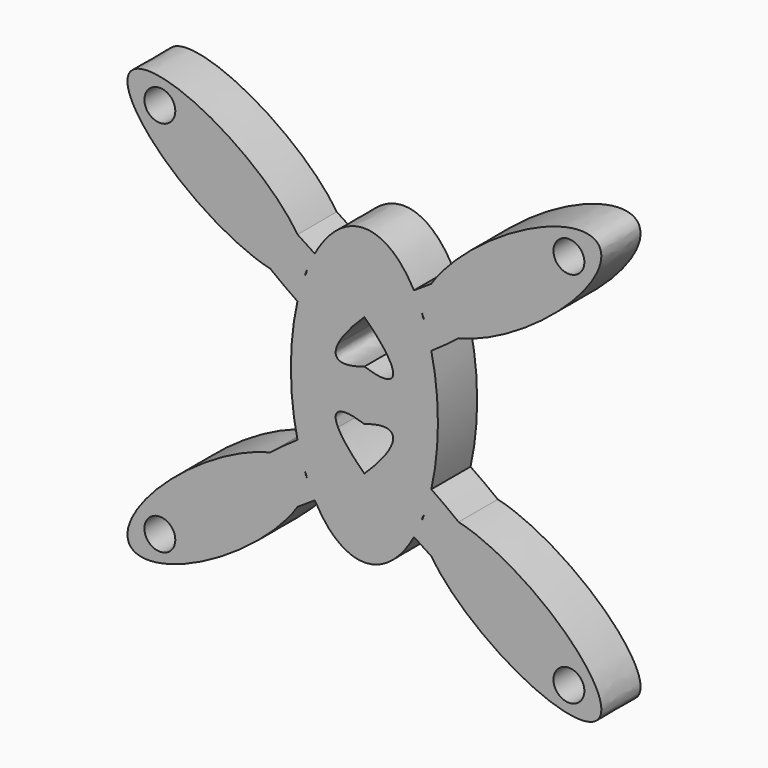
from build123d import *

# Parameters (mm, degrees)
F0_R     = 8.0000094
F1_DEPTH = 25.4


with BuildPart() as f1:
    # F0 (on Front) → F1 (new body)
    with BuildSketch(Plane.XZ):
        with BuildLine():
            add(Edge.make_bspline(
                [(25.6944915621, 56.2637753217), (14.7807976353, 76.2), (0, 76.2)],
                knots=[5.5430387883, 5.5430387883, 5.5430387883, 6.2831853072, 6.2831853072, 6.2831853072], degree=2, weights=[1, 0.9323008514, 1]))
            add(Edge.make_bspline(
                [(0, 76.2), (-14.7807976353, 76.2), (-25.6944915621, 56.2637753217)],
                knots=[0, 0, 0, 0.7401465189, 0.7401465189, 0.7401465189], degree=2, weights=[1, 0.9323008514, 1]))
            add(Edge.make_bspline(
                [(0, 35.7039772952), (-10.9495682124, 46.1447045645), (-25.6944915621, 56.2637753217)],
                knots=[4.1310711996, 4.1310711996, 4.1310711996, 4.7573758804, 4.7573758804, 4.7573758804], degree=2, weights=[1, 0.951367191, 1]))
            add(Edge.make_bspline(
                [(25.6944915621, 56.2637753217), (10.9495682124, 46.1447045645), (0, 35.7039772952)],
                knots=[1.5258094267, 1.5258094267, 1.5258094267, 2.1521141075, 2.1521141075, 2.1521141075], degree=2, weights=[1, 0.951367191, 1]))
        make_face()
        with BuildLine():
            add(Edge.make_bspline(
                [(0, 35.7039772952), (-10.9495682124, 46.1447045645), (-25.6944915621, 56.2637753217)],
                knots=[4.1310711996, 4.1310711996, 4.1310711996, 4.7573758804, 4.7573758804, 4.7573758804], degree=2, weights=[1, 0.951367191, 1]))
            add(Edge.make_bspline(
                [(-25.6944915621, 56.2637753217), (-27.8809580882, 52.2697208606), (-29.7326056479, 47.647965807)],
                knots=[0.7401465189, 0.7401465189, 0.7401465189, 0.8952786478, 0.8952786478, 0.8952786478], degree=2, weights=[1, 0.9969932608, 1]))
            add(Edge.make_bspline(
                [(-30.9460720448, 44.45), (-29.9868304216, 45.8172268129), (-29.7326056479, 47.647965807)],
                knots=[0, 0, 0, 0.1748982818, 0.1748982818, 0.1748982818], degree=2, weights=[1, 0.99617876, 1]))
            add(Edge.make_bspline(
                [(-30.9460720448, 44.45), (-33.1228667275, 38.3880656848), (-34.6702088452, 31.5966212518)],
                knots=[0.9479697414, 0.9479697414, 0.9479697414, 1.1432339807, 1.1432339807, 1.1432339807], degree=2, weights=[1, 0.9952377692, 1]))
            add(Edge.make_bspline(
                [(-34.6702088452, 31.5966212518), (-23.7833877258, 24.248269716), (-13.6663111817, 19.0709160357)],
                knots=[1.6492683589, 1.6492683589, 1.6492683589, 2.1171313716, 2.1171313716, 2.1171313716], degree=2, weights=[1, 0.9727625774, 1]))
            add(Edge.make_bspline(
                [(0, 35.7039772952), (-10.421432246, 25.7668428141), (-13.6663111817, 19.0709160357)],
                knots=[2.1521141075, 2.1521141075, 2.1521141075, 2.7500183923, 2.7500183923, 2.7500183923], degree=2, weights=[1, 0.9556456277, 1]))
        make_face()
        with BuildLine():
            add(Edge.make_bspline(
                [(-25.6944915621, 56.2637753217), (-27.8809580882, 52.2697208606), (-29.7326056479, 47.647965807)],
                knots=[0.7401465189, 0.7401465189, 0.7401465189, 0.8952786478, 0.8952786478, 0.8952786478], degree=2, weights=[1, 0.9969932608, 1]))
            add(Edge.make_bspline(
                [(-25.6944915621, 56.2637753217), (-30.1545473154, 59.3245996257), (-34.6296454148, 62.1027430884)],
                knots=[4.7573758804, 4.7573758804, 4.7573758804, 4.9526437281, 4.9526437281, 4.9526437281], degree=2, weights=[1, 0.9952375934, 1]))
            add(Edge.make_bspline(
                [(-29.7326056479, 47.647965807), (-28.9465723257, 53.3083970581), (-34.6296454148, 62.1027430884)],
                knots=[0.1748982818, 0.1748982818, 0.1748982818, 0.7043232485, 0.7043232485, 0.7043232485], degree=2, weights=[1, 0.9651677643, 1]))
        make_face()
        with BuildLine():
            add(Edge.make_bspline(
                [(34.6296454148, 62.1027430884), (30.1545473154, 59.3245996257), (25.6944915621, 56.2637753217)],
                knots=[1.3305415791, 1.3305415791, 1.3305415791, 1.5258094267, 1.5258094267, 1.5258094267], degree=2, weights=[1, 0.9952375934, 1]))
            add(Edge.make_bspline(
                [(29.7326056479, 47.647965807), (27.8809580882, 52.2697208606), (25.6944915621, 56.2637753217)],
                knots=[5.3879066594, 5.3879066594, 5.3879066594, 5.5430387883, 5.5430387883, 5.5430387883], degree=2, weights=[1, 0.9969932608, 1]))
            add(Edge.make_bspline(
                [(34.6296454148, 62.1027430884), (28.9465723257, 53.3083970581), (29.7326056479, 47.647965807)],
                knots=[5.5788620587, 5.5788620587, 5.5788620587, 6.1082870254, 6.1082870254, 6.1082870254], degree=2, weights=[1, 0.9651677643, 1]))
        make_face()
        with BuildLine():
            add(Edge.make_bspline(
                [(29.7326056479, 47.647965807), (27.8809580882, 52.2697208606), (25.6944915621, 56.2637753217)],
                knots=[5.3879066594, 5.3879066594, 5.3879066594, 5.5430387883, 5.5430387883, 5.5430387883], degree=2, weights=[1, 0.9969932608, 1]))
            add(Edge.make_bspline(
                [(25.6944915621, 56.2637753217), (10.9495682124, 46.1447045645), (0, 35.7039772952)],
                knots=[1.5258094267, 1.5258094267, 1.5258094267, 2.1521141075, 2.1521141075, 2.1521141075], degree=2, weights=[1, 0.951367191, 1]))
            add(Edge.make_bspline(
                [(13.6663111817, 19.0709160357), (10.421432246, 25.7668428141), (0, 35.7039772952)],
                knots=[3.5331669149, 3.5331669149, 3.5331669149, 4.1310711996, 4.1310711996, 4.1310711996], degree=2, weights=[1, 0.9556456277, 1]))
            add(Edge.make_bspline(
                [(13.6663111817, 19.0709160357), (23.7833877258, 24.248269716), (34.6702088452, 31.5966212518)],
                knots=[4.1660539356, 4.1660539356, 4.1660539356, 4.6339169483, 4.6339169483, 4.6339169483], degree=2, weights=[1, 0.9727625774, 1]))
            add(Edge.make_bspline(
                [(34.6702088452, 31.5966212518), (33.1228667275, 38.3880656848), (30.9460720448, 44.45)],
                knots=[5.1399513265, 5.1399513265, 5.1399513265, 5.3352155658, 5.3352155658, 5.3352155658], degree=2, weights=[1, 0.9952377692, 1]))
            add(Edge.make_bspline(
                [(29.7326056479, 47.647965807), (29.9868304216, 45.8172268129), (30.9460720448, 44.45)],
                knots=[6.1082870254, 6.1082870254, 6.1082870254, 6.2831853072, 6.2831853072, 6.2831853072], degree=2, weights=[1, 0.99617876, 1]))
        make_face()
        with BuildLine():
            add(Edge.make_bspline(
                [(-29.7326056479, 47.647965807), (-30.3604067603, 46.0809597378), (-30.9460720448, 44.45)],
                knots=[0.8952786478, 0.8952786478, 0.8952786478, 0.9479697414, 0.9479697414, 0.9479697414], degree=2, weights=[1, 0.9996529762, 1]))
            add(Edge.make_bspline(
                [(-29.7326056479, 47.647965807), (-28.9465723257, 53.3083970581), (-34.6296454148, 62.1027430884)],
                knots=[0.1748982818, 0.1748982818, 0.1748982818, 0.7043232485, 0.7043232485, 0.7043232485], degree=2, weights=[1, 0.9651677643, 1]))
            add(Edge.make_bspline(
                [(-34.6296454148, 62.1027430884), (-70.4771506529, 84.3568948679), (-76.2, 76.2)],
                knots=[4.9526437281, 4.9526437281, 4.9526437281, 6.2831853072, 6.2831853072, 6.2831853072], degree=2, weights=[1, 0.7867496631, 1]))
            add(Edge.make_bspline(
                [(-76.2, 76.2), (-81.9228493471, 68.0431051321), (-48.7988488553, 41.9070860276)],
                knots=[0, 0, 0, 1.3305415791, 1.3305415791, 1.3305415791], degree=2, weights=[1, 0.7867496631, 1]))
            add(Edge.make_bspline(
                [(-48.7988488553, 41.9070860276), (-34.9667309255, 38.7192722103), (-30.9460720448, 44.45)],
                knots=[5.5788620587, 5.5788620587, 5.5788620587, 6.2831853072, 6.2831853072, 6.2831853072], degree=2, weights=[1, 0.9386293025, 1]))
        make_face()
        with BuildLine():
            add(Edge.make_bspline(
                [(-34.6296454148, 62.1027430884), (-70.4771506529, 84.3568948679), (-76.2, 76.2)],
                knots=[4.9526437281, 4.9526437281, 4.9526437281, 6.2831853072, 6.2831853072, 6.2831853072], degree=2, weights=[1, 0.7867496631, 1]))
            add(Edge.make_bspline(
                [(-34.6296454148, 62.1027430884), (-91.6804470123, 150.386754695), (-121.4539279552, 107.95), (-151.2274088981, 65.513245305), (-48.7988488553, 41.9070860276)],
                knots=[0.7043232485, 0.7043232485, 0.7043232485, 3.1415926536, 3.1415926536, 5.5788620587, 5.5788620587, 5.5788620587], degree=2, weights=[1, 0.3449275756, 1, 0.3449275756, 1]))
            add(Edge.make_bspline(
                [(-76.2, 76.2), (-81.9228493471, 68.0431051321), (-48.7988488553, 41.9070860276)],
                knots=[0, 0, 0, 1.3305415791, 1.3305415791, 1.3305415791], degree=2, weights=[1, 0.7867496631, 1]))
        make_face()
        with Locations((-105.9712578623, 97.79)):
            Circle(F0_R, mode=Mode.SUBTRACT)
        with BuildLine():
            add(Edge.make_bspline(
                [(34.6296454148, 62.1027430884), (28.9465723257, 53.3083970581), (29.7326056479, 47.647965807)],
                knots=[5.5788620587, 5.5788620587, 5.5788620587, 6.1082870254, 6.1082870254, 6.1082870254], degree=2, weights=[1, 0.9651677643, 1]))
            add(Edge.make_bspline(
                [(30.9460720448, 44.45), (30.3604067603, 46.0809597378), (29.7326056479, 47.647965807)],
                knots=[5.3352155658, 5.3352155658, 5.3352155658, 5.3879066594, 5.3879066594, 5.3879066594], degree=2, weights=[1, 0.9996529762, 1]))
            add(Edge.make_bspline(
                [(30.9460720448, 44.45), (34.9667309255, 38.7192722103), (48.7988488553, 41.9070860276)],
                knots=[0, 0, 0, 0.7043232485, 0.7043232485, 0.7043232485], degree=2, weights=[1, 0.9386293025, 1]))
            add(Edge.make_bspline(
                [(48.7988488553, 41.9070860276), (81.9228493471, 68.0431051321), (76.2, 76.2)],
                knots=[4.9526437281, 4.9526437281, 4.9526437281, 6.2831853072, 6.2831853072, 6.2831853072], degree=2, weights=[1, 0.7867496631, 1]))
            add(Edge.make_bspline(
                [(76.2, 76.2), (70.4771506529, 84.3568948679), (34.6296454148, 62.1027430884)],
                knots=[0, 0, 0, 1.3305415791, 1.3305415791, 1.3305415791], degree=2, weights=[1, 0.7867496631, 1]))
        make_face()
        with BuildLine():
            add(Edge.make_bspline(
                [(48.7988488553, 41.9070860276), (151.2274088981, 65.513245305), (121.4539279552, 107.95), (91.6804470123, 150.386754695), (34.6296454148, 62.1027430884)],
                knots=[0.7043232485, 0.7043232485, 0.7043232485, 3.1415926536, 3.1415926536, 5.5788620587, 5.5788620587, 5.5788620587], degree=2, weights=[1, 0.3449275756, 1, 0.3449275756, 1]))
            add(Edge.make_bspline(
                [(76.2, 76.2), (70.4771506529, 84.3568948679), (34.6296454148, 62.1027430884)],
                knots=[0, 0, 0, 1.3305415791, 1.3305415791, 1.3305415791], degree=2, weights=[1, 0.7867496631, 1]))
            add(Edge.make_bspline(
                [(48.7988488553, 41.9070860276), (81.9228493471, 68.0431051321), (76.2, 76.2)],
                knots=[4.9526437281, 4.9526437281, 4.9526437281, 6.2831853072, 6.2831853072, 6.2831853072], degree=2, weights=[1, 0.7867496631, 1]))
        make_face()
        with Locations((105.9712578623, 97.79)):
            Circle(F0_R, mode=Mode.SUBTRACT)
        with BuildLine():
            add(Edge.make_bspline(
                [(-30.9460720448, 44.45), (-33.1228667275, 38.3880656848), (-34.6702088452, 31.5966212518)],
                knots=[0.9479697414, 0.9479697414, 0.9479697414, 1.1432339807, 1.1432339807, 1.1432339807], degree=2, weights=[1, 0.9952377692, 1]))
            add(Edge.make_bspline(
                [(-48.7988488553, 41.9070860276), (-34.9667309255, 38.7192722103), (-30.9460720448, 44.45)],
                knots=[5.5788620587, 5.5788620587, 5.5788620587, 6.2831853072, 6.2831853072, 6.2831853072], degree=2, weights=[1, 0.9386293025, 1]))
            add(Edge.make_bspline(
                [(-48.7988488553, 41.9070860276), (-42.0132265778, 36.5529877652), (-34.6702088452, 31.5966212518)],
                knots=[1.3305415791, 1.3305415791, 1.3305415791, 1.6492683589, 1.6492683589, 1.6492683589], degree=2, weights=[1, 0.9873285069, 1]))
        make_face()
        with BuildLine():
            add(Edge.make_bspline(
                [(13.6663111817, 19.0709160357), (23.7833877258, 24.248269716), (34.6702088452, 31.5966212518)],
                knots=[4.1660539356, 4.1660539356, 4.1660539356, 4.6339169483, 4.6339169483, 4.6339169483], degree=2, weights=[1, 0.9727625774, 1]))
            add(Edge.make_bspline(
                [(0, 13.1060439927), (19.8455344612, 6.3198620067), (13.6663111817, 19.0709160357)],
                knots=[2.4717287207, 2.4717287207, 2.4717287207, 3.5331669149, 3.5331669149, 3.5331669149], degree=2, weights=[1, 0.8624433199, 1]))
            add(Edge.make_bspline(
                [(-13.6663111817, 19.0709160357), (-19.8455344612, 6.3198620067), (0, 13.1060439927)],
                knots=[2.7500183923, 2.7500183923, 2.7500183923, 3.8114565865, 3.8114565865, 3.8114565865], degree=2, weights=[1, 0.8624433199, 1]))
            add(Edge.make_bspline(
                [(-34.6702088452, 31.5966212518), (-23.7833877258, 24.248269716), (-13.6663111817, 19.0709160357)],
                knots=[1.6492683589, 1.6492683589, 1.6492683589, 2.1171313716, 2.1171313716, 2.1171313716], degree=2, weights=[1, 0.9727625774, 1]))
            add(Edge.make_bspline(
                [(-34.6702088452, 31.5966212518), (-41.8690872755, 0), (-34.6702088452, -31.5966212518)],
                knots=[1.1432339807, 1.1432339807, 1.1432339807, 1.9983586729, 1.9983586729, 1.9983586729], degree=2, weights=[1, 0.9099792348, 1]))
            add(Edge.make_bspline(
                [(-13.6663111817, -19.0709160357), (-23.7833877258, -24.248269716), (-34.6702088452, -31.5966212518)],
                knots=[4.1660539356, 4.1660539356, 4.1660539356, 4.6339169483, 4.6339169483, 4.6339169483], degree=2, weights=[1, 0.9727625774, 1]))
            add(Edge.make_bspline(
                [(0, -13.1060439927), (-19.8455344612, -6.3198620067), (-13.6663111817, -19.0709160357)],
                knots=[2.4717287207, 2.4717287207, 2.4717287207, 3.5331669149, 3.5331669149, 3.5331669149], degree=2, weights=[1, 0.8624433199, 1]))
            add(Edge.make_bspline(
                [(13.6663111817, -19.0709160357), (19.8455344612, -6.3198620067), (0, -13.1060439927)],
                knots=[2.7500183923, 2.7500183923, 2.7500183923, 3.8114565865, 3.8114565865, 3.8114565865], degree=2, weights=[1, 0.8624433199, 1]))
            add(Edge.make_bspline(
                [(34.6702088452, -31.5966212518), (23.7833877258, -24.248269716), (13.6663111817, -19.0709160357)],
                knots=[1.6492683589, 1.6492683589, 1.6492683589, 2.1171313716, 2.1171313716, 2.1171313716], degree=2, weights=[1, 0.9727625774, 1]))
            add(Edge.make_bspline(
                [(34.6702088452, -31.5966212518), (41.8690872755, 0), (34.6702088452, 31.5966212518)],
                knots=[4.2848266342, 4.2848266342, 4.2848266342, 5.1399513265, 5.1399513265, 5.1399513265], degree=2, weights=[1, 0.9099792348, 1]))
        make_face()
        with BuildLine():
            add(Edge.make_bspline(
                [(30.9460720448, 44.45), (34.9667309255, 38.7192722103), (48.7988488553, 41.9070860276)],
                knots=[0, 0, 0, 0.7043232485, 0.7043232485, 0.7043232485], degree=2, weights=[1, 0.9386293025, 1]))
            add(Edge.make_bspline(
                [(34.6702088452, 31.5966212518), (33.1228667275, 38.3880656848), (30.9460720448, 44.45)],
                knots=[5.1399513265, 5.1399513265, 5.1399513265, 5.3352155658, 5.3352155658, 5.3352155658], degree=2, weights=[1, 0.9952377692, 1]))
            add(Edge.make_bspline(
                [(34.6702088452, 31.5966212518), (42.0132265778, 36.5529877652), (48.7988488553, 41.9070860276)],
                knots=[4.6339169483, 4.6339169483, 4.6339169483, 4.9526437281, 4.9526437281, 4.9526437281], degree=2, weights=[1, 0.9873285069, 1]))
        make_face()
        with BuildLine():
            add(Edge.make_bspline(
                [(-13.6663111817, -19.0709160357), (-23.7833877258, -24.248269716), (-34.6702088452, -31.5966212518)],
                knots=[4.1660539356, 4.1660539356, 4.1660539356, 4.6339169483, 4.6339169483, 4.6339169483], degree=2, weights=[1, 0.9727625774, 1]))
            add(Edge.make_bspline(
                [(-34.6702088452, -31.5966212518), (-33.1228667275, -38.3880656848), (-30.9460720448, -44.45)],
                knots=[1.9983586729, 1.9983586729, 1.9983586729, 2.1936229122, 2.1936229122, 2.1936229122], degree=2, weights=[1, 0.9952377692, 1]))
            add(Edge.make_bspline(
                [(-29.7326056479, -47.647965807), (-29.9868304216, -45.8172268129), (-30.9460720448, -44.45)],
                knots=[6.1082870254, 6.1082870254, 6.1082870254, 6.2831853072, 6.2831853072, 6.2831853072], degree=2, weights=[1, 0.99617876, 1]))
            add(Edge.make_bspline(
                [(-29.7326056479, -47.647965807), (-27.8809580882, -52.2697208606), (-25.6944915621, -56.2637753217)],
                knots=[2.2463140058, 2.2463140058, 2.2463140058, 2.4014461347, 2.4014461347, 2.4014461347], degree=2, weights=[1, 0.9969932608, 1]))
            add(Edge.make_bspline(
                [(-25.6944915621, -56.2637753217), (-10.9495682124, -46.1447045645), (0, -35.7039772952)],
                knots=[1.5258094267, 1.5258094267, 1.5258094267, 2.1521141075, 2.1521141075, 2.1521141075], degree=2, weights=[1, 0.951367191, 1]))
            add(Edge.make_bspline(
                [(-13.6663111817, -19.0709160357), (-10.421432246, -25.7668428141), (0, -35.7039772952)],
                knots=[3.5331669149, 3.5331669149, 3.5331669149, 4.1310711996, 4.1310711996, 4.1310711996], degree=2, weights=[1, 0.9556456277, 1]))
        make_face()
        with BuildLine():
            add(Edge.make_bspline(
                [(-34.6702088452, -31.5966212518), (-33.1228667275, -38.3880656848), (-30.9460720448, -44.45)],
                knots=[1.9983586729, 1.9983586729, 1.9983586729, 2.1936229122, 2.1936229122, 2.1936229122], degree=2, weights=[1, 0.9952377692, 1]))
            add(Edge.make_bspline(
                [(-34.6702088452, -31.5966212518), (-42.0132265778, -36.5529877652), (-48.7988488553, -41.9070860276)],
                knots=[4.6339169483, 4.6339169483, 4.6339169483, 4.9526437281, 4.9526437281, 4.9526437281], degree=2, weights=[1, 0.9873285069, 1]))
            add(Edge.make_bspline(
                [(-30.9460720448, -44.45), (-34.9667309255, -38.7192722103), (-48.7988488553, -41.9070860276)],
                knots=[0, 0, 0, 0.7043232485, 0.7043232485, 0.7043232485], degree=2, weights=[1, 0.9386293025, 1]))
        make_face()
        with BuildLine():
            add(Edge.make_bspline(
                [(48.7988488553, -41.9070860276), (42.0132265778, -36.5529877652), (34.6702088452, -31.5966212518)],
                knots=[1.3305415791, 1.3305415791, 1.3305415791, 1.6492683589, 1.6492683589, 1.6492683589], degree=2, weights=[1, 0.9873285069, 1]))
            add(Edge.make_bspline(
                [(30.9460720448, -44.45), (33.1228667275, -38.3880656848), (34.6702088452, -31.5966212518)],
                knots=[4.089562395, 4.089562395, 4.089562395, 4.2848266342, 4.2848266342, 4.2848266342], degree=2, weights=[1, 0.9952377692, 1]))
            add(Edge.make_bspline(
                [(48.7988488553, -41.9070860276), (34.9667309255, -38.7192722103), (30.9460720448, -44.45)],
                knots=[5.5788620587, 5.5788620587, 5.5788620587, 6.2831853072, 6.2831853072, 6.2831853072], degree=2, weights=[1, 0.9386293025, 1]))
        make_face()
        with BuildLine():
            add(Edge.make_bspline(
                [(30.9460720448, -44.45), (33.1228667275, -38.3880656848), (34.6702088452, -31.5966212518)],
                knots=[4.089562395, 4.089562395, 4.089562395, 4.2848266342, 4.2848266342, 4.2848266342], degree=2, weights=[1, 0.9952377692, 1]))
            add(Edge.make_bspline(
                [(34.6702088452, -31.5966212518), (23.7833877258, -24.248269716), (13.6663111817, -19.0709160357)],
                knots=[1.6492683589, 1.6492683589, 1.6492683589, 2.1171313716, 2.1171313716, 2.1171313716], degree=2, weights=[1, 0.9727625774, 1]))
            add(Edge.make_bspline(
                [(0, -35.7039772952), (10.421432246, -25.7668428141), (13.6663111817, -19.0709160357)],
                knots=[2.1521141075, 2.1521141075, 2.1521141075, 2.7500183923, 2.7500183923, 2.7500183923], degree=2, weights=[1, 0.9556456277, 1]))
            add(Edge.make_bspline(
                [(0, -35.7039772952), (10.9495682124, -46.1447045645), (25.6944915621, -56.2637753217)],
                knots=[4.1310711996, 4.1310711996, 4.1310711996, 4.7573758804, 4.7573758804, 4.7573758804], degree=2, weights=[1, 0.951367191, 1]))
            add(Edge.make_bspline(
                [(25.6944915621, -56.2637753217), (27.8809580882, -52.2697208606), (29.7326056479, -47.647965807)],
                knots=[3.8817391725, 3.8817391725, 3.8817391725, 4.0368713014, 4.0368713014, 4.0368713014], degree=2, weights=[1, 0.9969932608, 1]))
            add(Edge.make_bspline(
                [(30.9460720448, -44.45), (29.9868304216, -45.8172268129), (29.7326056479, -47.647965807)],
                knots=[0, 0, 0, 0.1748982818, 0.1748982818, 0.1748982818], degree=2, weights=[1, 0.99617876, 1]))
        make_face()
        with BuildLine():
            add(Edge.make_bspline(
                [(-30.9460720448, -44.45), (-30.3604067603, -46.0809597378), (-29.7326056479, -47.647965807)],
                knots=[2.1936229122, 2.1936229122, 2.1936229122, 2.2463140058, 2.2463140058, 2.2463140058], degree=2, weights=[1, 0.9996529762, 1]))
            add(Edge.make_bspline(
                [(-30.9460720448, -44.45), (-34.9667309255, -38.7192722103), (-48.7988488553, -41.9070860276)],
                knots=[0, 0, 0, 0.7043232485, 0.7043232485, 0.7043232485], degree=2, weights=[1, 0.9386293025, 1]))
            add(Edge.make_bspline(
                [(-48.7988488553, -41.9070860276), (-81.9228493471, -68.0431051321), (-76.2, -76.2)],
                knots=[4.9526437281, 4.9526437281, 4.9526437281, 6.2831853072, 6.2831853072, 6.2831853072], degree=2, weights=[1, 0.7867496631, 1]))
            add(Edge.make_bspline(
                [(-76.2, -76.2), (-70.4771506529, -84.3568948679), (-34.6296454148, -62.1027430884)],
                knots=[0, 0, 0, 1.3305415791, 1.3305415791, 1.3305415791], degree=2, weights=[1, 0.7867496631, 1]))
            add(Edge.make_bspline(
                [(-34.6296454148, -62.1027430884), (-28.9465723258, -53.3083970581), (-29.7326056479, -47.647965807)],
                knots=[5.5788620587, 5.5788620587, 5.5788620587, 6.1082870254, 6.1082870254, 6.1082870254], degree=2, weights=[1, 0.9651677643, 1]))
        make_face()
        with BuildLine():
            add(Edge.make_bspline(
                [(-48.7988488553, -41.9070860276), (-81.9228493471, -68.0431051321), (-76.2, -76.2)],
                knots=[4.9526437281, 4.9526437281, 4.9526437281, 6.2831853072, 6.2831853072, 6.2831853072], degree=2, weights=[1, 0.7867496631, 1]))
            add(Edge.make_bspline(
                [(-48.7988488553, -41.9070860276), (-151.2274088982, -65.513245305), (-121.4539279552, -107.95), (-91.6804470123, -150.386754695), (-34.6296454148, -62.1027430884)],
                knots=[0.7043232485, 0.7043232485, 0.7043232485, 3.1415926536, 3.1415926536, 5.5788620587, 5.5788620587, 5.5788620587], degree=2, weights=[1, 0.3449275756, 1, 0.3449275756, 1]))
            add(Edge.make_bspline(
                [(-76.2, -76.2), (-70.4771506529, -84.3568948679), (-34.6296454148, -62.1027430884)],
                knots=[0, 0, 0, 1.3305415791, 1.3305415791, 1.3305415791], degree=2, weights=[1, 0.7867496631, 1]))
        make_face()
        with Locations((-105.9712578623, -97.79)):
            Circle(F0_R, mode=Mode.SUBTRACT)
        with BuildLine():
            add(Edge.make_bspline(
                [(48.7988488553, -41.9070860276), (34.9667309255, -38.7192722103), (30.9460720448, -44.45)],
                knots=[5.5788620587, 5.5788620587, 5.5788620587, 6.2831853072, 6.2831853072, 6.2831853072], degree=2, weights=[1, 0.9386293025, 1]))
            add(Edge.make_bspline(
                [(29.7326056479, -47.647965807), (30.3604067603, -46.0809597378), (30.9460720448, -44.45)],
                knots=[4.0368713014, 4.0368713014, 4.0368713014, 4.089562395, 4.089562395, 4.089562395], degree=2, weights=[1, 0.9996529762, 1]))
            add(Edge.make_bspline(
                [(29.7326056479, -47.647965807), (28.9465723257, -53.3083970581), (34.6296454148, -62.1027430884)],
                knots=[0.1748982818, 0.1748982818, 0.1748982818, 0.7043232485, 0.7043232485, 0.7043232485], degree=2, weights=[1, 0.9651677643, 1]))
            add(Edge.make_bspline(
                [(34.6296454148, -62.1027430884), (70.4771506529, -84.3568948679), (76.2, -76.2)],
                knots=[4.9526437281, 4.9526437281, 4.9526437281, 6.2831853072, 6.2831853072, 6.2831853072], degree=2, weights=[1, 0.7867496631, 1]))
            add(Edge.make_bspline(
                [(76.2, -76.2), (81.9228493471, -68.0431051321), (48.7988488553, -41.9070860276)],
                knots=[0, 0, 0, 1.3305415791, 1.3305415791, 1.3305415791], degree=2, weights=[1, 0.7867496631, 1]))
        make_face()
        with BuildLine():
            add(Edge.make_bspline(
                [(34.6296454148, -62.1027430884), (91.6804470123, -150.386754695), (121.4539279552, -107.95), (151.2274088982, -65.513245305), (48.7988488553, -41.9070860276)],
                knots=[0.7043232485, 0.7043232485, 0.7043232485, 3.1415926536, 3.1415926536, 5.5788620587, 5.5788620587, 5.5788620587], degree=2, weights=[1, 0.3449275756, 1, 0.3449275756, 1]))
            add(Edge.make_bspline(
                [(76.2, -76.2), (81.9228493471, -68.0431051321), (48.7988488553, -41.9070860276)],
                knots=[0, 0, 0, 1.3305415791, 1.3305415791, 1.3305415791], degree=2, weights=[1, 0.7867496631, 1]))
            add(Edge.make_bspline(
                [(34.6296454148, -62.1027430884), (70.4771506529, -84.3568948679), (76.2, -76.2)],
                knots=[4.9526437281, 4.9526437281, 4.9526437281, 6.2831853072, 6.2831853072, 6.2831853072], degree=2, weights=[1, 0.7867496631, 1]))
        make_face()
        with Locations((105.9712578623, -97.79)):
            Circle(F0_R, mode=Mode.SUBTRACT)
        with BuildLine():
            add(Edge.make_bspline(
                [(-29.7326056479, -47.647965807), (-27.8809580882, -52.2697208606), (-25.6944915621, -56.2637753217)],
                knots=[2.2463140058, 2.2463140058, 2.2463140058, 2.4014461347, 2.4014461347, 2.4014461347], degree=2, weights=[1, 0.9969932608, 1]))
            add(Edge.make_bspline(
                [(-34.6296454148, -62.1027430884), (-28.9465723258, -53.3083970581), (-29.7326056479, -47.647965807)],
                knots=[5.5788620587, 5.5788620587, 5.5788620587, 6.1082870254, 6.1082870254, 6.1082870254], degree=2, weights=[1, 0.9651677643, 1]))
            add(Edge.make_bspline(
                [(-34.6296454148, -62.1027430884), (-30.1545473154, -59.3245996257), (-25.6944915621, -56.2637753217)],
                knots=[1.3305415791, 1.3305415791, 1.3305415791, 1.5258094267, 1.5258094267, 1.5258094267], degree=2, weights=[1, 0.9952375934, 1]))
        make_face()
        with BuildLine():
            add(Edge.make_bspline(
                [(0, -35.7039772952), (10.9495682124, -46.1447045645), (25.6944915621, -56.2637753217)],
                knots=[4.1310711996, 4.1310711996, 4.1310711996, 4.7573758804, 4.7573758804, 4.7573758804], degree=2, weights=[1, 0.951367191, 1]))
            add(Edge.make_bspline(
                [(-25.6944915621, -56.2637753217), (-10.9495682124, -46.1447045645), (0, -35.7039772952)],
                knots=[1.5258094267, 1.5258094267, 1.5258094267, 2.1521141075, 2.1521141075, 2.1521141075], degree=2, weights=[1, 0.951367191, 1]))
            add(Edge.make_bspline(
                [(-25.6944915621, -56.2637753217), (0, -103.2003267964), (25.6944915621, -56.2637753217)],
                knots=[2.4014461347, 2.4014461347, 2.4014461347, 3.8817391725, 3.8817391725, 3.8817391725], degree=2, weights=[1, 0.7383697549, 1]))
        make_face()
        with BuildLine():
            add(Edge.make_bspline(
                [(29.7326056479, -47.647965807), (28.9465723257, -53.3083970581), (34.6296454148, -62.1027430884)],
                knots=[0.1748982818, 0.1748982818, 0.1748982818, 0.7043232485, 0.7043232485, 0.7043232485], degree=2, weights=[1, 0.9651677643, 1]))
            add(Edge.make_bspline(
                [(25.6944915621, -56.2637753217), (27.8809580882, -52.2697208606), (29.7326056479, -47.647965807)],
                knots=[3.8817391725, 3.8817391725, 3.8817391725, 4.0368713014, 4.0368713014, 4.0368713014], degree=2, weights=[1, 0.9969932608, 1]))
            add(Edge.make_bspline(
                [(25.6944915621, -56.2637753217), (30.1545473154, -59.3245996257), (34.6296454148, -62.1027430884)],
                knots=[4.7573758804, 4.7573758804, 4.7573758804, 4.9526437281, 4.9526437281, 4.9526437281], degree=2, weights=[1, 0.9952375934, 1]))
        make_face()
    extrude(amount=F1_DEPTH)


solid = f1.part
